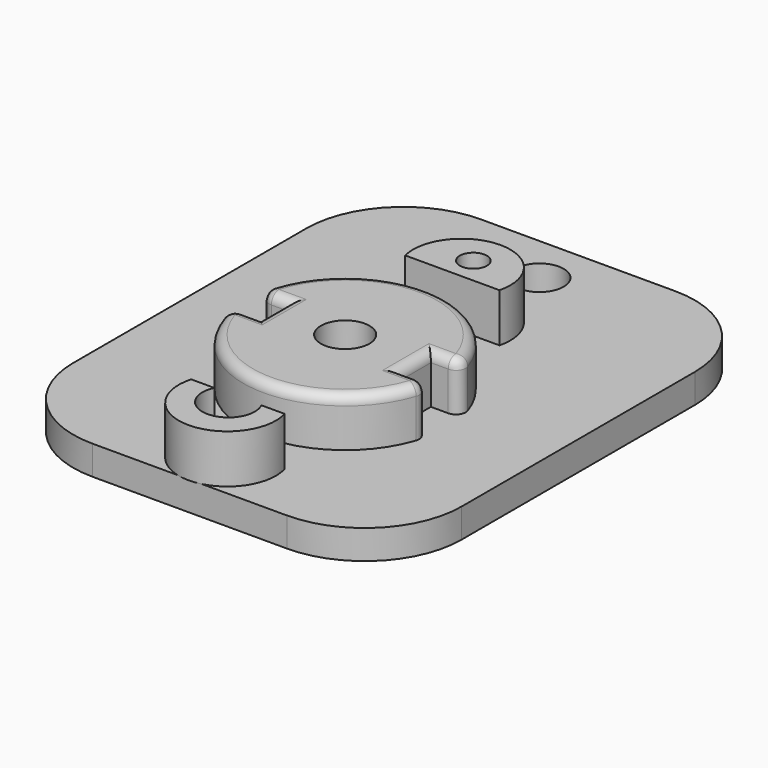
from build123d import *

# Parameters (mm, degrees)
SKETCH001_W   = 40
SKETCH001_H   = 50
SKETCH001_R   = 2.25
SKETCH001_R_2 = 2.5
PAD001_DEPTH  = 3
SKETCH_R      = 2.5
PAD_DEPTH     = 5
PAD002_DEPTH  = 5
SKETCH003_R   = 1.4
SKETCH003_R_2 = 2.7
POCKET_DEPTH  = 8.001
FILLET_R      = 1
FILLET001_R   = 1
FILLET002_R   = 1
FILLET003_R   = 1
FILLET004_R   = 10


with BuildPart() as part:
    # Sketch001 → Pad001 (new body)
    with BuildSketch(Plane.XY):
        with Locations((0, 5)):
            Rectangle(SKETCH001_W, SKETCH001_H)
        Circle(SKETCH001_R, mode=Mode.SUBTRACT)
        with Locations((0, 25)):
            Circle(SKETCH001_R_2, mode=Mode.SUBTRACT)
        with Locations((0, -15)):
            Circle(SKETCH001_R_2, mode=Mode.SUBTRACT)
    extrude(amount=-PAD001_DEPTH)

    # Sketch → Pad (join)
    with BuildSketch(Plane.XY):
        with BuildLine():
            ThreePointArc((-10.337741, -1.838777), (-0.081993, -10.49968), (10.307764, -2))
            Line((7.228416, -2), (10.307764, -2))
            Line((7.228416, -2), (7.228416, 2))
            Line((10.307764, 2), (7.228416, 2))
            ThreePointArc((10.307764, 2), (-0.081993, 10.49968), (-10.337741, 1.838777))
            Line((-10.337741, 1.838777), (-7.2711, 1.838777))
            Line((-7.2711, -1.838777), (-7.2711, 1.838777))
            Line((-7.2711, -1.838777), (-10.337741, -1.838777))
        make_face()
        Circle(SKETCH_R, mode=Mode.SUBTRACT)
    extrude(amount=PAD_DEPTH)

    # Sketch002 → Pad002 (join)
    with BuildSketch(Plane.XY):
        with BuildLine():
            ThreePointArc((-4.812647, -13.8), (0, -20.155888), (4.812647, -13.8))
            Line((4.812647, -13.8), (-4.812647, -13.8))
        make_face()
        with BuildLine():
            ThreePointArc((4.853864, 13.8), (0, 20), (-4.853864, 13.8))
            Line((4.853864, 13.8), (-4.853864, 13.8))
        make_face()
    extrude(amount=PAD002_DEPTH)

    # Sketch003 (on Face23 of Pad002) → Pocket (cut, through all)
    with BuildSketch(Plane.XY.offset(5)):
        with Locations((0, 16.5)):
            Circle(SKETCH003_R)
        with Locations((0, -15)):
            Circle(SKETCH003_R_2)
    extrude(amount=-POCKET_DEPTH, mode=Mode.SUBTRACT)

    # Fillet
    fillet_edges = [part.edges().sort_by_distance(p)[0] for p in [
        (-0.081993, -10.49968, 5),
        (-0.081993, 10.49968, 5),
    ]]
    fillet(fillet_edges, radius=FILLET_R)

    # Fillet001
    fillet001_edges = [part.edges().sort_by_distance(p)[0] for p in [
        (8.257752, 2, 5),
        (7.228416, 0, 5),
        (8.257752, -2, 5),
    ]]
    fillet(fillet001_edges, radius=FILLET001_R)

    # Fillet002
    fillet002_edges = [part.edges().sort_by_distance(p)[0] for p in [
        (-8.295724, 1.838777, 5),
    ]]
    fillet(fillet002_edges, radius=FILLET002_R)

    # Fillet003
    fillet003_edges = [part.edges().sort_by_distance(p)[0] for p in [
        (-7.2711, 0, 5),
        (-8.295724, -1.838777, 5),
    ]]
    fillet(fillet003_edges, radius=FILLET003_R)

    # Fillet004
    fillet004_edges = [part.edges().sort_by_distance(p)[0] for p in [
        (20, -20, -1.5),
        (-20, -20, -1.5),
        (20, 30, -1.5),
        (-20, 30, -1.5),
    ]]
    fillet(fillet004_edges, radius=FILLET004_R)


solid = part.part
